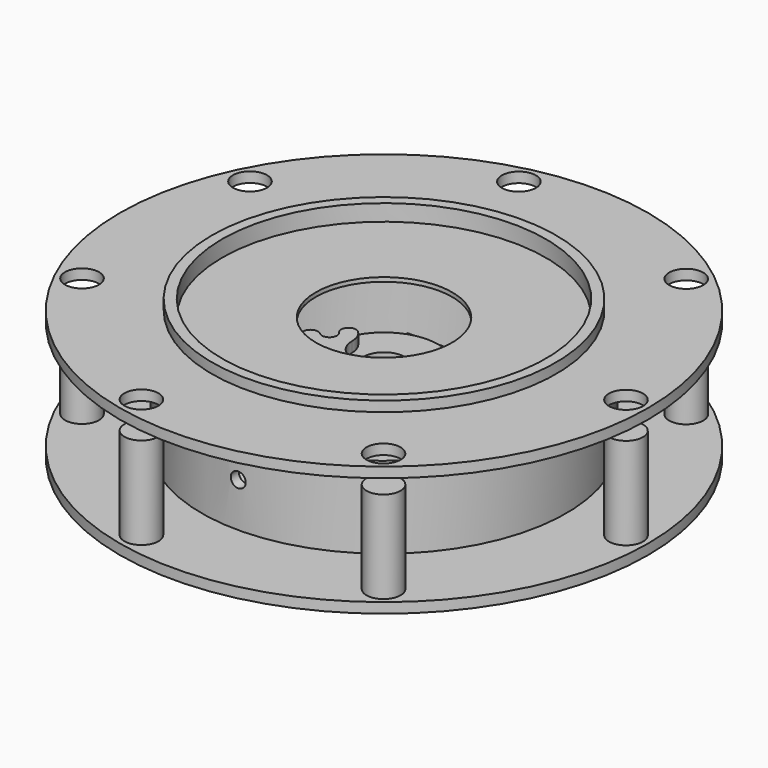
from build123d import *

# Parameters (mm, degrees)
PAD_DEPTH             = 3
SKETCH013_R           = 1.1
POCKET003_DEPTH       = 38.751
POCKET003_DEPTH_BACK  = 38.751
SKETCH014_R           = 2.5
PAD001_DEPTH          = 7.5
POLARPATTERN_COUNT    = 7
PAD002_DEPTH          = 6
SKETCH017_R           = 2.5
POCKET_DEPTH          = 219.286202
POCKET_DEPTH_BACK     = 222.286202
POLARPATTERN001_COUNT = 7


with BuildPart() as seven_pegs:
    # Sketch006 → Revolution001 (revolve)
    with BuildSketch(Plane.XZ):
        Polygon((-8, 4.5), (-3.075, 4.5), (-3.075, -7.5), (-38.75, -7.5), (-38.75, -6), (-26.75, -6), (-26.75, 6), (-25.25, 6), (-25.25, -6), (-19.434409, -6), (-13.815591, -4.5), (-8, -4.5), align=None)
    revolve(axis=Axis((0, 0, 0), (0, 0, 1)))

    # Sketch → Pad (new body, symmetric)
    with BuildSketch(Plane.YZ):
        Polygon((2.3, -6.3), (2.3, 3.3), (3.3, 4.3), (8.1, 4.3), (8.1, 2.3), (3.3, -7.3), align=None)
    extrude(amount=PAD_DEPTH, both=True)

    # Sketch013 → Pocket003 (cut, two sides)
    with BuildSketch(Plane.XZ) as pocket003_sk:
        with Locations((0, 0.5)):
            Circle(SKETCH013_R)
    extrude(amount=-POCKET003_DEPTH, mode=Mode.SUBTRACT)
    extrude(pocket003_sk.sketch, amount=POCKET003_DEPTH_BACK, mode=Mode.SUBTRACT)

    # Sketch014 → Pad001 (join, symmetric)
    with BuildSketch(Plane.XY):
        with Locations((35.5, 0)):
            Circle(SKETCH014_R)
    pad001 = extrude(amount=PAD001_DEPTH, both=True)

    # PolarPattern: Pad001 ×7 about axis
    polarpattern_axis = Axis((0, 0, 0), (0, 0, 1))
    for i in range(1, POLARPATTERN_COUNT):
        add(pad001.rotate(polarpattern_axis, i * 360 / POLARPATTERN_COUNT))


with BuildPart() as spacer:
    # Sketch015 → Pad002 (new body)
    with BuildSketch(Plane.XY):
        with BuildLine():
            ThreePointArc((-8.75, -0.804674), (-7.222183, -0.777817), (-7.195326, 0.75))
            ThreePointArc((-5.585978, 2.25), (-7.140652, 2.304674), (-7.195326, 0.75))
            ThreePointArc((-4.7, 0), (-4.929473, 1.209076), (-5.585978, 2.25))
            ThreePointArc((-4.7, 0), (-3.733452, -2.333452), (-1.4, -3.3))
            Line((-1.4, -3.3), (1.4, -3.3))
            ThreePointArc((1.4, -3.3), (3.733452, -2.333452), (4.7, 0))
            ThreePointArc((5.585978, 2.25), (4.929473, 1.209076), (4.7, 0))
            ThreePointArc((7.195326, 0.75), (7.140652, 2.304674), (5.585978, 2.25))
            ThreePointArc((7.195326, 0.75), (7.222183, -0.777817), (8.75, -0.804674))
            ThreePointArc((10.147227, -2.498784), (10.348612, -0.90945), (8.75, -0.804674))
            ThreePointArc((-10.147227, -2.498784), (0, -5.8), (10.147227, -2.498784))
            ThreePointArc((-8.75, -0.804674), (-10.348612, -0.90945), (-10.147227, -2.498784))
        make_face()
    extrude(amount=PAD002_DEPTH)


with BuildPart() as cover:
    # Sketch016 → Revolution (revolve)
    with BuildSketch(Plane.XZ):
        Polygon((-10, 0), (-10, 0.6), (-23.75, 0.6), (-23.75, 3), (-25.25, 3), (-25.25, 1.5), (-38.75, 1.5), (-38.75, 0), align=None)
    revolve(axis=Axis((0, 0, 0), (0, 0, 1)))

    # Sketch017 → Pocket (cut, two sides)
    with BuildSketch(Plane.XY) as pocket_sk:
        with Locations((35.5, 0)):
            Circle(SKETCH017_R)
    pocket = extrude(amount=-POCKET_DEPTH, mode=Mode.SUBTRACT) + extrude(pocket_sk.sketch, amount=POCKET_DEPTH_BACK, mode=Mode.SUBTRACT)

    # PolarPattern001: Pocket ×7 about axis
    polarpattern001_axis = Axis((0, 0, 0), (0, 0, 1))
    for i in range(1, POLARPATTERN001_COUNT):
        add(pocket.rotate(polarpattern001_axis, i * 360 / POLARPATTERN001_COUNT), mode=Mode.SUBTRACT)


with BuildPart() as cover_1:
    # Body006 placement: moved
    add(cover.part.moved(Location((0, 0, 10))))


solid = Compound([seven_pegs.part, spacer.part, cover_1.part])
